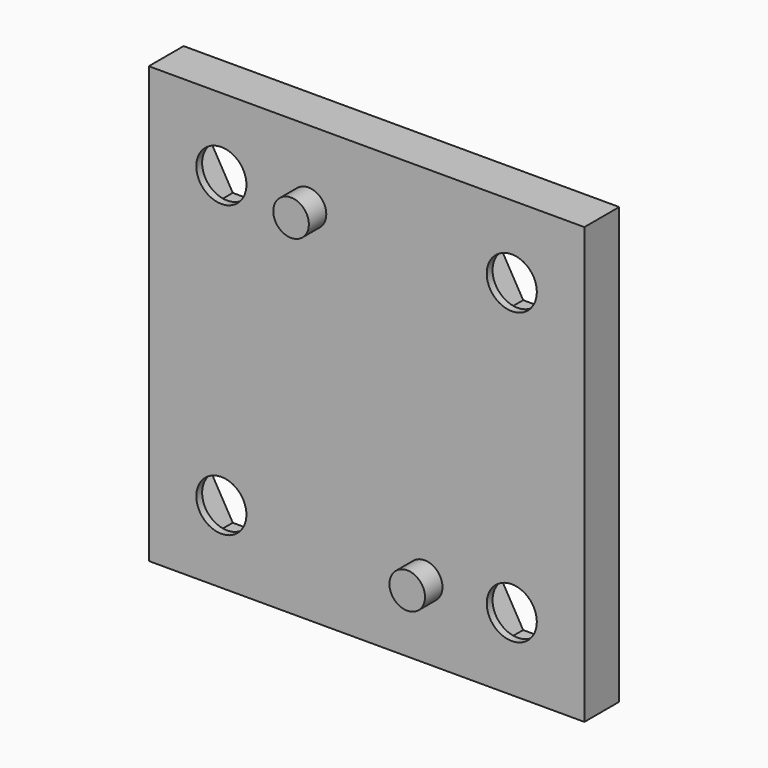
from build123d import *

# Parameters (mm, degrees)
SKETCH_W        = 30
SKETCH_H        = 30
PAD_DEPTH       = 3
POCKET_DEPTH    = 2.5
SKETCH002_R     = 1.725
POCKET001_DEPTH = 5
SKETCH003_R     = 1.225
PAD001_DEPTH    = 1.5


with BuildPart() as part:
    # Sketch → Pad (new body)
    with BuildSketch(Plane.XZ):
        Rectangle(SKETCH_W, SKETCH_H)
    extrude(amount=-PAD_DEPTH)

    # Sketch001 (on Face6 of Pad) → Pocket (cut)
    with BuildSketch(Plane(origin=(0, 3, 0), x_dir=(1, 0, 0), z_dir=(0, 1, 0))):
        Polygon((-11.616581, 7.2), (-8.383419, 7.2), (-6.766838, 10), (-8.383419, 12.8), (-11.616581, 12.8), (-13.233162, 10), align=None)
        Polygon((11.616581, 7.2), (13.233162, 10), (11.616581, 12.8), (8.383419, 12.8), (6.766838, 10), (8.383419, 7.2), align=None)
        Polygon((11.616581, -12.8), (13.233162, -10), (11.616581, -7.2), (8.383419, -7.2), (6.766838, -10), (8.383419, -12.8), align=None)
        Polygon((-8.383419, -7.2), (-11.616581, -7.2), (-13.233162, -10), (-11.616581, -12.8), (-8.383419, -12.8), (-6.766838, -10), align=None)
    extrude(amount=-POCKET_DEPTH, mode=Mode.SUBTRACT)

    # Sketch002 (on Face33 of Pocket) → Pocket001 (cut)
    with BuildSketch(Plane(origin=(0, 0.5, 0), x_dir=(1, 0, 0), z_dir=(0, 1, 0))):
        with Locations((-10, 10)):
            Circle(SKETCH002_R)
        with Locations((10, 10)):
            Circle(SKETCH002_R)
        with Locations((10, -10)):
            Circle(SKETCH002_R)
        with Locations((-10, -10)):
            Circle(SKETCH002_R)
    extrude(amount=-POCKET001_DEPTH, mode=Mode.SUBTRACT)

    # Sketch003 (on Face4 of Pocket001) → Pad001 (join)
    with BuildSketch(Plane.XZ):
        with Locations((4, -10)):
            Circle(SKETCH003_R)
        with Locations((-4, 10)):
            Circle(SKETCH003_R)
    extrude(amount=PAD001_DEPTH)


solid = part.part
